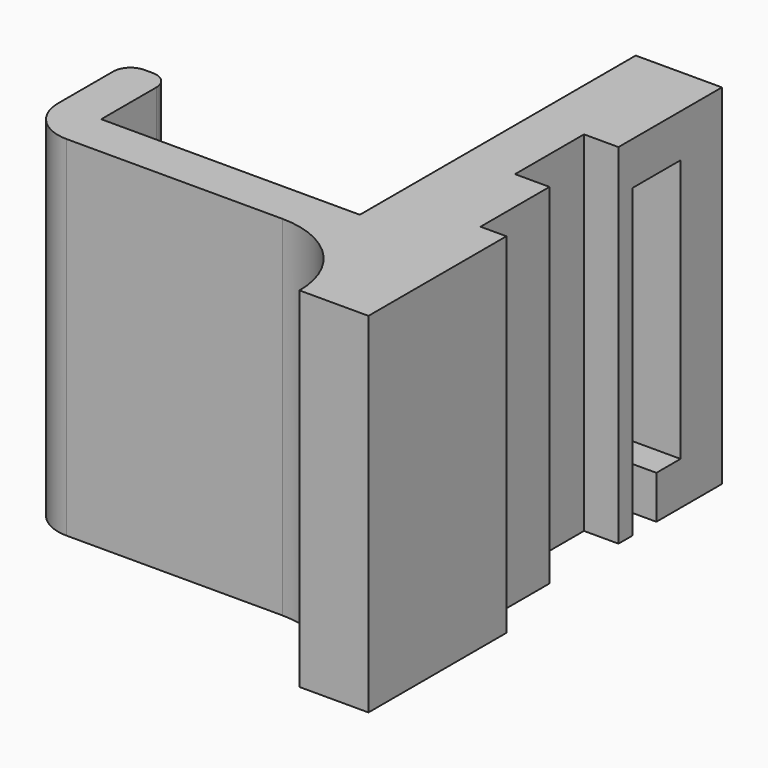
from build123d import *

# Parameters (mm, degrees)
F1_DEPTH = 40.5
F3_DEPTH = 10


with BuildPart() as f1:
    # F0 (on Top) → F1 (new body)
    with BuildSketch(Plane.XY):
        with BuildLine():
            Line((-8.776744, 29.122414), (-18.776744, 29.122414))
            Line((-18.776744, 29.122414), (-18.776744, -10.877586))
            Line((-18.776744, -10.877586), (-48.776744, -10.877586))
            Line((-48.776744, -10.877586), (-48.776744, -2.877586))
            ThreePointArc((-48.776744, -2.877586), (-49.36253, -1.463373), (-50.776744, -0.877586))
            Line((-50.776744, -0.877586), (-51.776744, -0.877586))
            ThreePointArc((-51.776744, -0.877586), (-53.190957, -1.463373), (-53.776744, -2.877586))
            Line((-53.776744, -2.877586), (-53.776744, -10.877586))
            ThreePointArc((-53.776744, -10.877586), (-52.312278, -14.41312), (-48.776744, -15.877586))
            Line((-48.776744, -15.877586), (-23.776744, -15.877586))
            ThreePointArc((-23.776744, -15.877586), (-16.705676, -18.806518), (-13.776744, -25.877586))
            Line((-13.776744, -25.877586), (-5.776744, -25.877586))
            Line((-5.776744, -25.877586), (-5.776744, -5.877586))
            Line((-5.776744, -5.877586), (-8.776744, -5.877586))
            Line((-8.776744, -5.877586), (-8.776744, 4.122414))
            Line((-8.776744, 4.122414), (-12.776744, 4.122414))
            Line((-12.776744, 4.122414), (-12.776744, 14.122414))
            Line((-12.776744, 14.122414), (-8.776744, 14.122414))
            Line((-8.776744, 14.122414), (-8.776744, 16.122414))
            Line((-8.776744, 16.122414), (-8.776744, 29.122414))
        make_face()
        with BuildLine():
            Line((-8.776744, 29.122414), (-18.776744, 29.122414))
            Line((-18.776744, 29.122414), (-18.776744, -10.877586))
            Line((-18.776744, -10.877586), (-48.776744, -10.877586))
            Line((-48.776744, -10.877586), (-48.776744, -2.877586))
            ThreePointArc((-48.776744, -2.877586), (-49.36253, -1.463373), (-50.776744, -0.877586))
            Line((-50.776744, -0.877586), (-51.776744, -0.877586))
            ThreePointArc((-51.776744, -0.877586), (-53.190957, -1.463373), (-53.776744, -2.877586))
            Line((-53.776744, -2.877586), (-53.776744, -10.877586))
            ThreePointArc((-53.776744, -10.877586), (-52.312278, -14.41312), (-48.776744, -15.877586))
            Line((-48.776744, -15.877586), (-23.776744, -15.877586))
            ThreePointArc((-23.776744, -15.877586), (-16.705676, -18.806518), (-13.776744, -25.877586))
            Line((-13.776744, -25.877586), (-5.776744, -25.877586))
            Line((-5.776744, -25.877586), (-5.776744, -5.877586))
            Line((-5.776744, -5.877586), (-8.776744, -5.877586))
            Line((-8.776744, -5.877586), (-8.776744, 4.122414))
            Line((-8.776744, 4.122414), (-12.776744, 4.122414))
            Line((-12.776744, 4.122414), (-12.776744, 14.122414))
            Line((-12.776744, 14.122414), (-8.776744, 14.122414))
            Line((-8.776744, 14.122414), (-8.776744, 16.122414))
            Line((-8.776744, 16.122414), (-8.776744, 29.122414))
        make_face()
    extrude(amount=F1_DEPTH)

    # F2 (on face) → F3 (cut)
    with BuildSketch(Plane(origin=(-18.776744, 0, 0), x_dir=(0, -1, 0), z_dir=(-1, 0, 0))):
        Polygon((-19.622414, 5), (-19.622414, 0), (-16.122414, 0), (-16.122414, 35.5), (-23.122414, 35.5), (-23.122414, 5), align=None)
    extrude(amount=-F3_DEPTH, mode=Mode.SUBTRACT)


solid = f1.part
